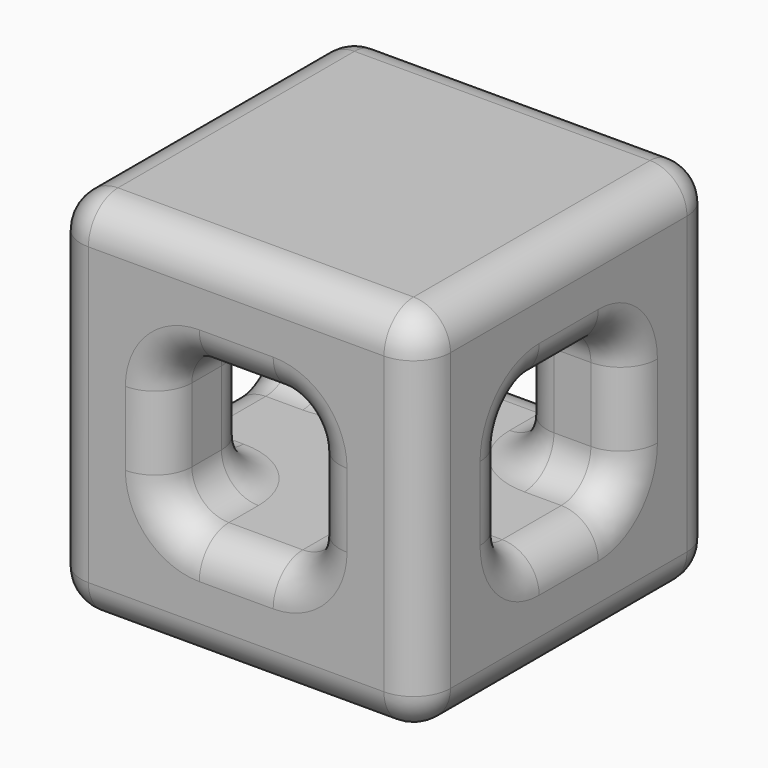
from build123d import *

# Parameters (mm, degrees)
F0_W     = 50
F0_H     = 50
F1_DEPTH = 25
F2_W     = 20
F2_H     = 20
F3_DEPTH = 50
F4_W     = 20
F4_H     = 20
F5_DEPTH = 15
F6_W     = 20
F6_H     = 20
F7_DEPTH = 15
F8_R     = 5


with BuildPart() as f1:
    # F0 (on Front) → F1 (new body, symmetric)
    with BuildSketch(Plane.XZ):
        Rectangle(F0_W, F0_H)
    extrude(amount=F1_DEPTH, both=True)

    # F2 (on face) → F3 (cut, through all)
    with BuildSketch(Plane.XZ.offset(25)):
        Rectangle(F2_W, F2_H)
    extrude(amount=-F3_DEPTH, mode=Mode.SUBTRACT)

    # F4 (on face) → F5 (cut, through all)
    with BuildSketch(Plane.YZ.offset(25)):
        Rectangle(F4_W, F4_H)
    extrude(amount=-F5_DEPTH, mode=Mode.SUBTRACT)

    # F6 (on face) → F7 (cut, through all)
    with BuildSketch(Plane(origin=(-25, 0, 0), x_dir=(0, -1, 0), z_dir=(-1, 0, 0))):
        Rectangle(F6_W, F6_H)
    extrude(amount=-F7_DEPTH, mode=Mode.SUBTRACT)

    # F8
    f8_edges = [f1.edges().sort_by_distance(p)[0] for p in [
        (-17.5, -10, 10),
        (17.5, -10, 10),
        (10, -25, 0),
        (0, -25, -25),
        (-25, -25, 0),
        (25, -25, 0),
        (0, -25, 25),
        (0, -25, 10),
        (-10, -25, 0),
        (0, -25, -10),
        (-17.5, -10, -10),
        (-25, 0, 25),
        (17.5, -10, -10),
        (0, 25, 25),
        (25, -10, 0),
        (10, -10, 0),
        (10, -17.5, -10),
        (-17.5, 10, -10),
        (-25, -10, 0),
        (17.5, 10, 10),
        (25, 0, -25),
        (-10, -17.5, 10),
        (-17.5, 10, 10),
        (0, 25, -10),
        (-10, -10, 0),
        (0, 25, 10),
        (0, 25, -25),
        (17.5, 10, -10),
        (10, -17.5, 10),
        (-25, 0, -25),
        (-25, 25, 0),
        (25, 25, 0),
        (-10, 25, 0),
        (10, 25, 0),
        (-10, -17.5, -10),
        (25, 0, 25),
        (-25, 0, 10),
        (-25, 10, 0),
        (10, 10, 0),
        (-10, 10, 0),
        (-10, 17.5, 10),
        (10, 17.5, 10),
        (-25, 0, -10),
        (25, 10, 0),
        (25, 0, -10),
        (-10, 17.5, -10),
        (10, 17.5, -10),
        (25, 0, 10),
    ]]
    fillet(f8_edges, radius=F8_R)


solid = f1.part
